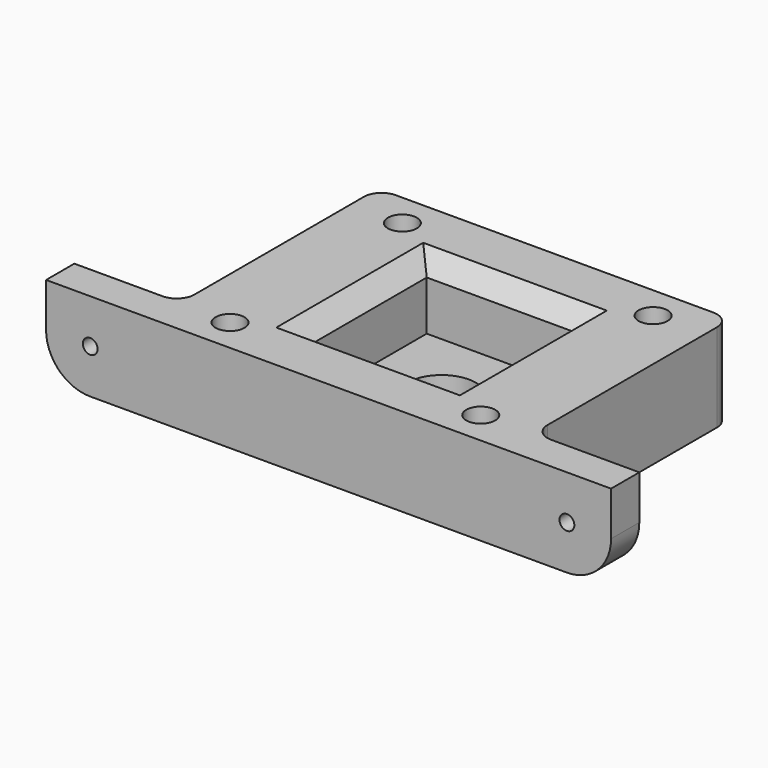
from build123d import *

# Parameters (mm, degrees)
F0_R     = 4.1
F0_W     = 42
F0_H     = 42
F0_W_2   = 30
F0_H_2   = 10
F1_DEPTH = 25
F0_R_2   = 9.7
F2_DEPTH = 6
F3_SIZE  = 5
F4_R     = 5
F5_R     = 12.5
F7_R     = 2.1
F6_R     = 2.1
F8_DEPTH = 25


with BuildPart() as f1:
    # F0 (on Top) → F1 (new body)
    with BuildSketch(Plane.XY):
        Polygon((-50, -30), (-50, -40), (50, -40), (50, -30), (50, 40), (-50, 40), align=None)
        with Locations((-35.5, -30.5)):
            Circle(F0_R, mode=Mode.SUBTRACT)
        with Locations((35.5, -30.5)):
            Circle(F0_R, mode=Mode.SUBTRACT)
        with Locations((-35.5, 30.5)):
            Circle(F0_R, mode=Mode.SUBTRACT)
        Rectangle(F0_W, F0_H, mode=Mode.SUBTRACT)
        with Locations((35.5, 30.5)):
            Circle(F0_R, mode=Mode.SUBTRACT)
        with Locations((-65, -35)):
            Rectangle(F0_W_2, F0_H_2)
        with Locations((65, -35)):
            Rectangle(F0_W_2, F0_H_2)
    extrude(amount=F1_DEPTH)

    # F0 (on Top) → F2 (join)
    with BuildSketch(Plane.XY):
        Rectangle(F0_W, F0_H)
        Circle(F0_R_2, mode=Mode.SUBTRACT)
    extrude(amount=F2_DEPTH)

    # F3
    f3_edges = [f1.edges().sort_by_distance(p)[0] for p in [
        (0, 21, 25),
        (-21, 0, 25),
        (0, -21, 25),
        (21, 0, 25),
    ]]
    chamfer(f3_edges, length=F3_SIZE)

    # F4
    f4_edges = [f1.edges().sort_by_distance(p)[0] for p in [
        (-50, -30, 12.5),
        (-50, 40, 12.5),
        (50, 40, 12.5),
        (50, -30, 12.5),
    ]]
    fillet(f4_edges, radius=F4_R)

    # F5
    f5_edges = [f1.edges().sort_by_distance(p)[0] for p in [
        (80, -35, 0),
        (-80, -35, 0),
    ]]
    fillet(f5_edges, radius=F5_R)

    # F7 (on face) + F6 (on face) → F8 (cut)
    with BuildSketch(Plane(origin=(0, -30, 0), x_dir=(-1, 0, 0), z_dir=(0, 1, 0))):
        with Locations((-67.5, 12.5)):
            Circle(F7_R)
    with BuildSketch(Plane(origin=(0, -30, 0), x_dir=(-1, 0, 0), z_dir=(0, 1, 0))):
        with Locations((67.5, 12.5)):
            Circle(F6_R)
    extrude(amount=-F8_DEPTH, mode=Mode.SUBTRACT)


solid = f1.part
